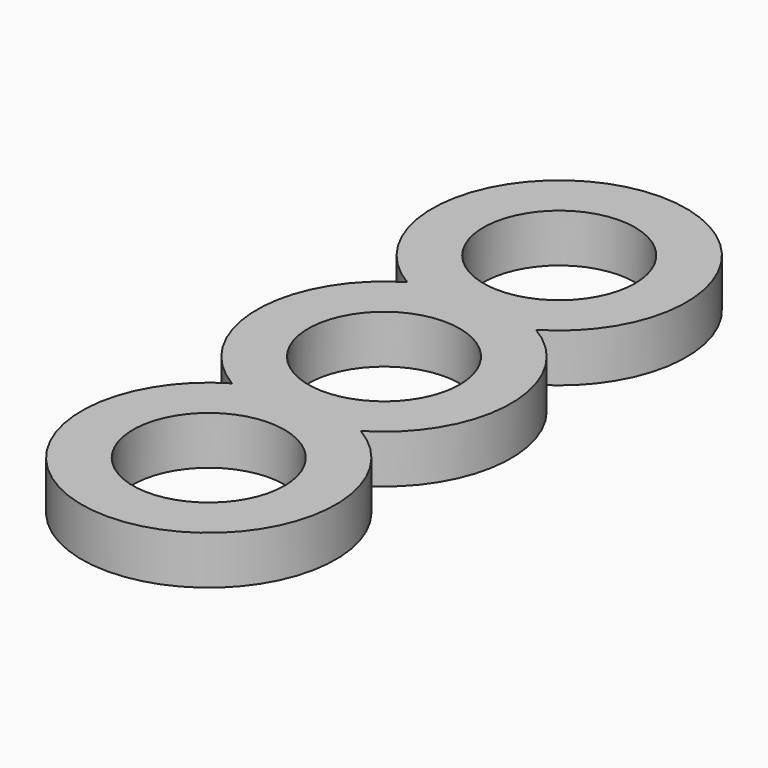
from build123d import *

# Parameters (mm, degrees)
F0_R     = 10.9855
F1_DEPTH = 7


with BuildPart() as f1:
    # F0 (on Top) → F1 (new body)
    with BuildSketch(Plane.XY):
        with BuildLine():
            ThreePointArc((9.332556, -15.875), (18.415, 0), (9.332556, 15.875))
            ThreePointArc((9.332556, 15.875), (0, 50.165), (-9.332556, 15.875))
            ThreePointArc((-9.332556, 15.875), (-18.415, 0), (-9.332556, -15.875))
            ThreePointArc((-9.332556, -15.875), (0, -50.165), (9.332556, -15.875))
        make_face()
        with Locations((0, -31.75)):
            Circle(F0_R, mode=Mode.SUBTRACT)
        Circle(F0_R, mode=Mode.SUBTRACT)
        with Locations((0, 31.75)):
            Circle(F0_R, mode=Mode.SUBTRACT)
    extrude(amount=F1_DEPTH)


solid = f1.part
